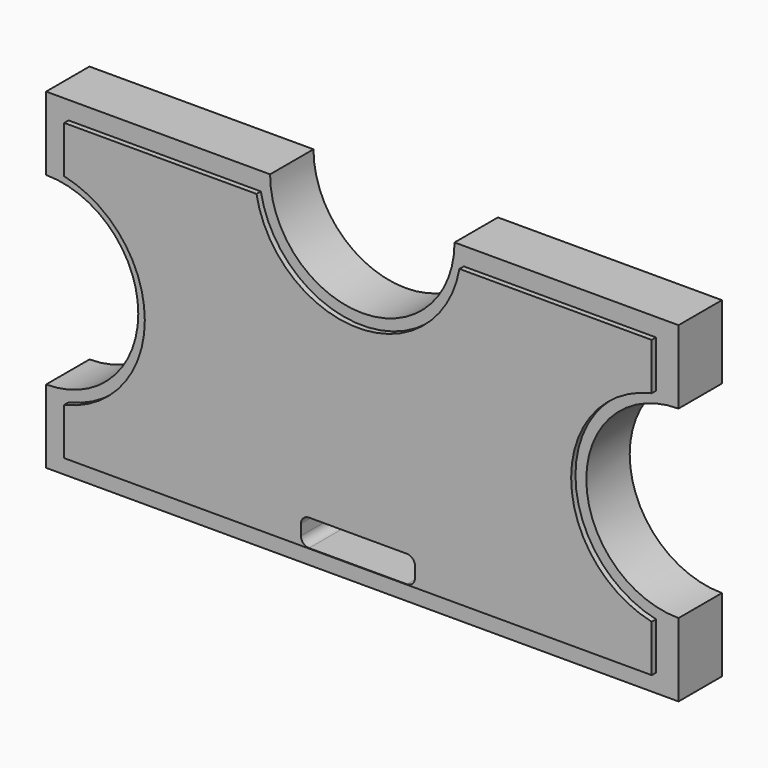
from build123d import *

# Parameters (mm, degrees)
F1_DEPTH = 20
F3_DEPTH = 2
F5_DEPTH = 4
F6_DEPTH = 4


with BuildPart() as f1:
    # F0 (on Front) → F1 (new body)
    with BuildSketch(Plane.XZ):
        with BuildLine():
            Line((116.590939, 34), (116.590939, 61.067935))
            Line((116.590939, 61.067935), (34, 61.067935))
            ThreePointArc((34, 61.067935), (0, 27.067935), (-34, 61.067935))
            Line((-34, 61.067935), (-116.590939, 61.067935))
            Line((-116.590939, 61.067935), (-116.590939, 34))
            ThreePointArc((-116.590939, 34), (-82.590939, 0), (-116.590939, -34))
            Line((-116.590939, -34), (-116.590939, -61.067935))
            Line((-116.590939, -61.067935), (34, -61.067935))
            Line((34, -61.067935), (116.590939, -61.067935))
            Line((116.590939, -61.067935), (116.590939, -34))
            ThreePointArc((116.590939, -34), (82.590939, 0), (116.590939, 34))
        make_face()
        with BuildLine():
            Line((-18.030702, -44.351537), (18.030702, -44.351537))
            ThreePointArc((18.030702, -44.351537), (20.152022, -45.230216), (21.030702, -47.351537))
            Line((21.030702, -47.351537), (21.030702, -51.243211))
            ThreePointArc((21.030702, -51.243211), (20.152022, -53.364531), (18.030702, -54.243211))
            Line((18.030702, -54.243211), (-18.030702, -54.243211))
            ThreePointArc((-18.030702, -54.243211), (-20.152022, -53.364531), (-21.030702, -51.243211))
            Line((-21.030702, -51.243211), (-21.030702, -47.351537))
            ThreePointArc((-21.030702, -47.351537), (-20.152022, -45.230216), (-18.030702, -44.351537))
        make_face(mode=Mode.SUBTRACT)
    extrude(amount=-F1_DEPTH)

    # F2 (on face) → F3 (join)
    with BuildSketch(Plane.XZ):
        with BuildLine():
            Line((108.294822, 37.083345), (108.294822, 54.408085))
            Line((108.294822, 54.408085), (37.411848, 54.408085))
            ThreePointArc((37.411848, 54.408085), (0, 23.067935), (-37.411848, 54.408085))
            Line((-37.411848, 54.408085), (-108.294822, 54.408085))
            Line((-108.294822, 54.408085), (-108.294822, 37.083345))
            ThreePointArc((-108.294822, 37.083345), (-78.590939, 0), (-108.294822, -37.083345))
            Line((-108.294822, -37.083345), (-108.294822, -54.408085))
            Line((-108.294822, -54.408085), (108.294822, -54.408085))
            Line((108.294822, -54.408085), (108.294822, -37.083345))
            ThreePointArc((108.294822, -37.083345), (78.590939, 0), (108.294822, 37.083345))
        make_face()
        with BuildLine():
            Line((-21.030702, -51.243211), (-21.030702, -47.351537))
            ThreePointArc((-21.030702, -47.351537), (-20.152022, -45.230216), (-18.030702, -44.351537))
            Line((-18.030702, -44.351537), (18.030702, -44.351537))
            ThreePointArc((18.030702, -44.351537), (20.152022, -45.230216), (21.030702, -47.351537))
            Line((21.030702, -47.351537), (21.030702, -51.243211))
            ThreePointArc((21.030702, -51.243211), (20.152022, -53.364531), (18.030702, -54.243211))
            Line((18.030702, -54.243211), (-18.030702, -54.243211))
            ThreePointArc((-18.030702, -54.243211), (-20.152022, -53.364531), (-21.030702, -51.243211))
        make_face(mode=Mode.SUBTRACT)
    extrude(amount=F3_DEPTH)

    # F4 (on face) → F5 (join)
    with BuildSketch(Plane(origin=(0, 20, 0), x_dir=(-1, 0, 0), z_dir=(0, 1, 0))):
        with BuildLine():
            ThreePointArc((-60.5, 43.5), (-61.37868, 45.62132), (-63.5, 46.5))
            Line((-63.5, 46.5), (-90.5, 46.5))
            ThreePointArc((-90.5, 46.5), (-92.62132, 45.62132), (-93.5, 43.5))
            Line((-93.5, 43.5), (-93.5, 42.5))
            ThreePointArc((-93.5, 42.5), (-92.62132, 40.37868), (-90.5, 39.5))
            Line((-90.5, 39.5), (-63.5, 39.5))
            ThreePointArc((-63.5, 39.5), (-61.37868, 40.37868), (-60.5, 42.5))
            Line((-60.5, 42.5), (-60.5, 43.5))
        make_face()
    extrude(amount=F5_DEPTH)

    # F4 (on face) → F6 (join)
    with BuildSketch(Plane(origin=(0, 20, 0), x_dir=(-1, 0, 0), z_dir=(0, 1, 0))):
        with BuildLine():
            ThreePointArc((-60.5, 43.5), (-61.37868, 45.62132), (-63.5, 46.5))
            Line((-63.5, 46.5), (-90.5, 46.5))
            ThreePointArc((-90.5, 46.5), (-92.62132, 45.62132), (-93.5, 43.5))
            Line((-93.5, 43.5), (-93.5, 42.5))
            ThreePointArc((-93.5, 42.5), (-92.62132, 40.37868), (-90.5, 39.5))
            Line((-90.5, 39.5), (-63.5, 39.5))
            ThreePointArc((-63.5, 39.5), (-61.37868, 40.37868), (-60.5, 42.5))
            Line((-60.5, 42.5), (-60.5, 43.5))
        make_face()
        with BuildLine():
            ThreePointArc((-60.5, -42.5), (-61.37868, -40.37868), (-63.5, -39.5))
            Line((-63.5, -39.5), (-90.5, -39.5))
            ThreePointArc((-90.5, -39.5), (-92.62132, -40.37868), (-93.5, -42.5))
            Line((-93.5, -42.5), (-93.5, -43.5))
            ThreePointArc((-93.5, -43.5), (-92.62132, -45.62132), (-90.5, -46.5))
            Line((-90.5, -46.5), (-63.5, -46.5))
            ThreePointArc((-63.5, -46.5), (-61.37868, -45.62132), (-60.5, -43.5))
            Line((-60.5, -43.5), (-60.5, -42.5))
        make_face()
        with BuildLine():
            Line((91.5, 46.5), (64.5, 46.5))
            ThreePointArc((64.5, 46.5), (62.37868, 45.62132), (61.5, 43.5))
            Line((61.5, 43.5), (61.5, 42.5))
            ThreePointArc((61.5, 42.5), (62.37868, 40.37868), (64.5, 39.5))
            Line((64.5, 39.5), (91.5, 39.5))
            ThreePointArc((91.5, 39.5), (93.62132, 40.37868), (94.5, 42.5))
            Line((94.5, 42.5), (94.5, 43.5))
            ThreePointArc((94.5, 43.5), (93.62132, 45.62132), (91.5, 46.5))
        make_face()
        with BuildLine():
            Line((91.5, -39.5), (64.5, -39.5))
            ThreePointArc((64.5, -39.5), (62.37868, -40.37868), (61.5, -42.5))
            Line((61.5, -42.5), (61.5, -43.5))
            ThreePointArc((61.5, -43.5), (62.37868, -45.62132), (64.5, -46.5))
            Line((64.5, -46.5), (91.5, -46.5))
            ThreePointArc((91.5, -46.5), (93.62132, -45.62132), (94.5, -43.5))
            Line((94.5, -43.5), (94.5, -42.5))
            ThreePointArc((94.5, -42.5), (93.62132, -40.37868), (91.5, -39.5))
        make_face()
    extrude(amount=F6_DEPTH)


solid = f1.part
